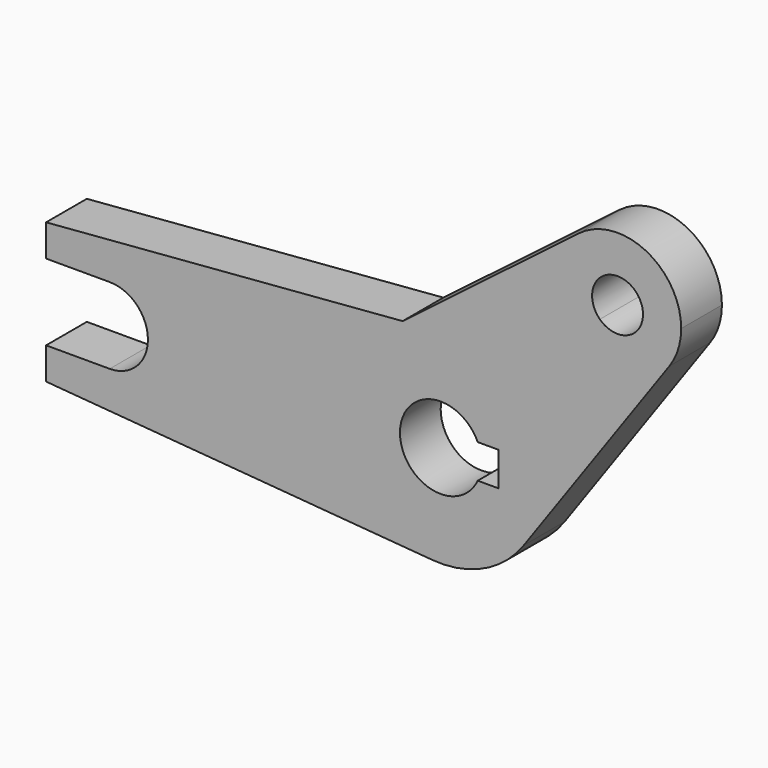
from build123d import *

# Parameters (mm, degrees)
F1_DEPTH = 30


with BuildPart() as f1:
    # F0 (on Front) → F1 (new body)
    with BuildSketch(Plane.XZ):
        with BuildLine():
            ThreePointArc((41.6795022275, 43.1603880203), (20.2038503869, 56.496056761), (-4.8582300529, 59.8029898981))
            ThreePointArc((-4.8582300529, 59.8029898981), (-21.5105948147, 56.0115551535), (-36.4201459122, 47.6819984034))
            ThreePointArc((-36.4201459122, 47.6819984034), (-53.7829376045, 26.5969100204), (-60, 0))
            ThreePointArc((-60, 0), (-44.110621188, -40.672510353), (-4.8582300529, -59.8029898981))
            ThreePointArc((-4.8582300529, -59.8029898981), (25.3488261592, -54.382322609), (48.9239965804, -34.7338819973))
            ThreePointArc((48.9239965804, -34.7338819973), (57.1639737721, -18.2285518511), (60, 0))
            ThreePointArc((60, 0), (55.2302912071, 23.4438677094), (41.6795022275, 43.1603880203))
        make_face()
        with BuildLine():
            ThreePointArc((21.8174242293, -10), (-23.5836522276, -4.4509940021), (16.671800891, 17.2641552081))
            ThreePointArc((16.671800891, 17.2641552081), (19.5843585627, 13.8727394442), (21.8174242293, 10))
            Line((21.8174242293, 10), (34, 10))
            Line((34, 10), (34, -10))
            Line((34, -10), (21.8174242293, -10))
        make_face(mode=Mode.SUBTRACT)
        with BuildLine():
            Line((-22.4187933011, 58.3764181454), (-4.8582300529, 59.8029898981))
            ThreePointArc((-4.8582300529, 59.8029898981), (20.2038503869, 56.496056761), (41.6795022275, 43.1603880203))
            Line((41.6795022275, 43.1603880203), (78.1490666766, 80.9257275381))
            ThreePointArc((78.1490666766, 80.9257275381), (66.7614457161, 110.0684180864), (81.4361643738, 137.7022190529))
            Line((81.4361643738, 137.7022190529), (-22.4187933011, 58.3764181454))
        make_face()
        with BuildLine():
            ThreePointArc((-36.4201459122, 47.6819984034), (-21.5105948147, 56.0115551535), (-4.8582300529, 59.8029898981))
            Line((-4.8582300529, 59.8029898981), (-22.4187933011, 58.3764181454))
            Line((-22.4187933011, 58.3764181454), (-36.4201459122, 47.6819984034))
        make_face()
        with BuildLine():
            ThreePointArc((-60, 0), (-53.7829376045, 26.5969100204), (-36.4201459122, 47.6819984034))
            Line((-36.4201459122, 47.6819984034), (-22.4187933011, 58.3764181454))
            Line((-22.4187933011, 58.3764181454), (-232.5, 41.31))
            Line((-232.5, 41.31), (-232.5, 22.5))
            Line((-232.5, 22.5), (-195, 22.5))
            ThreePointArc((-195, 22.5), (-179.0900974233, 15.9099025767), (-172.5, 0))
            Line((-172.5, 0), (-60, 0))
        make_face()
        with BuildLine():
            Line((78.1490666766, 80.9257275381), (41.6795022275, 43.1603880203))
            ThreePointArc((41.6795022275, 43.1603880203), (55.2302912071, 23.4438677094), (60, 0))
            ThreePointArc((60, 0), (57.1639737721, -18.2285518511), (48.9239965804, -34.7338819973))
            Line((48.9239965804, -34.7338819973), (134.7762534316, 86.1922938025))
            ThreePointArc((134.7762534316, 86.1922938025), (107.6714265254, 70.5621088412), (78.1490666766, 80.9257275381))
        make_face()
        with BuildLine():
            ThreePointArc((-4.8582300529, -59.8029898981), (-44.110621188, -40.672510353), (-60, 0))
            Line((-60, 0), (-172.5, 0))
            ThreePointArc((-172.5, 0), (-179.0900974233, -15.9099025767), (-195, -22.5))
            Line((-195, -22.5), (-232.5, -22.5))
            Line((-232.5, -22.5), (-232.5, -41.31))
            Line((-232.5, -41.31), (-4.8582300529, -59.8029898981))
        make_face()
        with BuildLine():
            ThreePointArc((81.4361643738, 137.7022190529), (66.7614457161, 110.0684180864), (78.1490666766, 80.9257275381))
            ThreePointArc((78.1490666766, 80.9257275381), (107.6714265254, 70.5621088412), (134.7762534316, 86.1922938025))
            ThreePointArc((134.7762534316, 86.1922938025), (139.9262391764, 96.5081251439), (141.6987555688, 107.9009700508))
            ThreePointArc((141.6987555688, 107.9009700508), (120.8218243316, 141.5153060536), (81.4361643738, 137.7022190529))
        make_face()
        with BuildLine():
            ThreePointArc((119.1987555688, 107.9009700508), (110.0597224962, 94.093397249), (93.778880012, 97.1108730457))
            ThreePointArc((93.778880012, 97.1108730457), (98.3377886415, 121.7085428526), (119.1987555688, 107.9009700508))
        make_face(mode=Mode.SUBTRACT)
    extrude(amount=F1_DEPTH)


solid = f1.part
